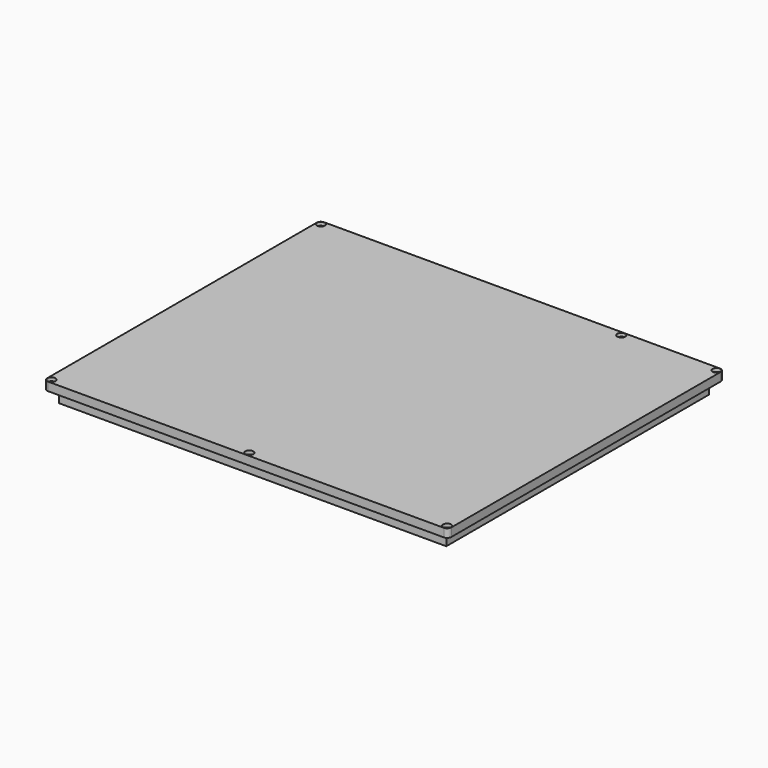
from build123d import *

# Parameters (mm, degrees)
SKETCH009_R      = 0.5
EXTRUDE011_DEPTH = 8
SKETCH010_R      = 0.95
EXTRUDE010_DEPTH = 0.8
SKETCH008_W      = 96
SKETCH008_H      = 82
EXTRUDE009_DEPTH = 2
FILLET004_R      = 1
SKETCH007_W      = 92
SKETCH007_H      = 78
SKETCH007_W_2    = 88
SKETCH007_H_2    = 74
EXTRUDE008_DEPTH = 3


with BuildPart() as extrude011:
    # Sketch009 (on Face5 of Fusion002) → Extrude011 (new body)
    with BuildSketch(Plane.XY.offset(12)):
        with Locations((24.37, 40)):
            Circle(SKETCH009_R)
        with Locations((0, -40)):
            Circle(SKETCH009_R)
        with Locations((47, -40)):
            Circle(SKETCH009_R)
        with Locations((-47, -40)):
            Circle(SKETCH009_R)
        with Locations((-47, 40)):
            Circle(SKETCH009_R)
        with Locations((47, 40)):
            Circle(SKETCH009_R)
    extrude(amount=-EXTRUDE011_DEPTH)


with BuildPart() as fusion004:
    # Sketch010 (on Face5 of Fusion002) → Extrude010 (new body)
    with BuildSketch(Plane.XY.offset(12)):
        with Locations((24.37, 40)):
            Circle(SKETCH010_R)
        with Locations((0, -40)):
            Circle(SKETCH010_R)
        with Locations((47, -40)):
            Circle(SKETCH010_R)
        with Locations((-47, -40)):
            Circle(SKETCH010_R)
        with Locations((-47, 40)):
            Circle(SKETCH010_R)
        with Locations((47, 40)):
            Circle(SKETCH010_R)
    extrude(amount=-EXTRUDE010_DEPTH)

    # Fusion004: union Extrude011
    add(extrude011.part)


with BuildPart() as fillet004:
    # Sketch008 (on Face5 of Fusion001) → Extrude009 (new body)
    with BuildSketch(Plane.XY.offset(10)):
        Rectangle(SKETCH008_W, SKETCH008_H)
    extrude(amount=EXTRUDE009_DEPTH)

    # Fillet004
    fillet004_edges = [fillet004.edges().sort_by_distance(p)[0] for p in [
        (-48, 41, 11),
        (48, 41, 11),
        (48, -41, 11),
        (-48, -41, 11),
    ]]
    fillet(fillet004_edges, radius=FILLET004_R)


with BuildPart() as under001:
    # Sketch007 (on Face5 of Fusion001) → Extrude008 (new body)
    with BuildSketch(Plane.XY.offset(10)):
        Rectangle(SKETCH007_W, SKETCH007_H)
        Rectangle(SKETCH007_W_2, SKETCH007_H_2, mode=Mode.SUBTRACT)
    extrude(amount=-EXTRUDE008_DEPTH)

    # Fusion002: union Fillet004
    add(fillet004.part)

    # Cut004: cut Fusion004
    add(fusion004.part, mode=Mode.SUBTRACT)


solid = under001.part
